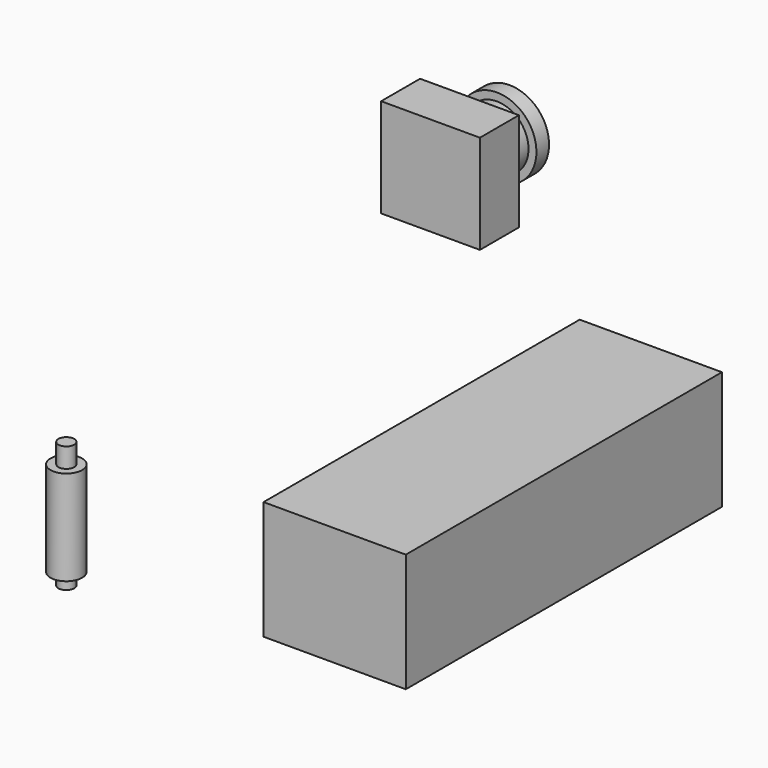
from build123d import *

# Parameters (mm, degrees)
F2_W          = 18
F2_H          = 15
F3_DEPTH      = 50
F4_W          = 4.336892
F4_H          = 4
F6_DEPTH      = 6.25
F6_DEPTH_BACK = 6.25


with BuildPart() as f1:
    # F0 (on Right) → F1 (revolve)
    with BuildSketch(Plane.YZ):
        Polygon((-32.855664, 30.060289), (-32.715008, 30.060289), (-32.715008, 32.329431), (-32.715008, 42.060289), (-32.855664, 42.060289), (-33.855664, 42.060289), (-33.855664, 30.060289), align=None)
        Polygon((-31.855664, 28.560289), (-31.855664, 30.060289), (-32.715008, 30.060289), (-32.855664, 30.060289), (-32.855664, 28.560289), align=None)
        Polygon((-32.715008, 42.060289), (-31.855664, 42.060289), (-31.855664, 44.560289), (-32.855664, 44.560289), (-32.855664, 42.060289), align=None)
    revolve(axis=Axis((0, -31.855664, 36.060289), (0, 0, -1)))


with BuildPart() as f3:
    # F2 (on Front) → F3 (new body)
    with BuildSketch(Plane.XZ):
        with Locations((48.474338, 50.557407)):
            Rectangle(F2_W, F2_H)
    extrude(amount=F3_DEPTH)


with BuildPart() as f5:
    # F4 (on Right) → F5 (revolve)
    with BuildSketch(Plane.YZ):
        Polygon((38.251927, 50.800157), (36.251927, 50.800157), (36.251927, 46.800157), (36.251927, 45.800157), (38.251927, 45.800157), align=None)
        with Locations((34.083481, 48.800157)):
            Rectangle(F4_W, F4_H)
    revolve(axis=Axis((0, 37.28378, 50.800157), (0, 1, 0)))

    # F4 (on Right) → F6 (join, two sides)
    with BuildSketch(Plane.YZ) as f6_sk:
        Polygon((31.915035, 57.050157), (25.751927, 57.050157), (25.751927, 44.550157), (31.915035, 44.550157), (31.915035, 46.800157), (31.915035, 50.800157), align=None)
    extrude(amount=F6_DEPTH)
    extrude(f6_sk.sketch, amount=-F6_DEPTH_BACK)


solid = Compound([f1.part, f3.part, f5.part])
